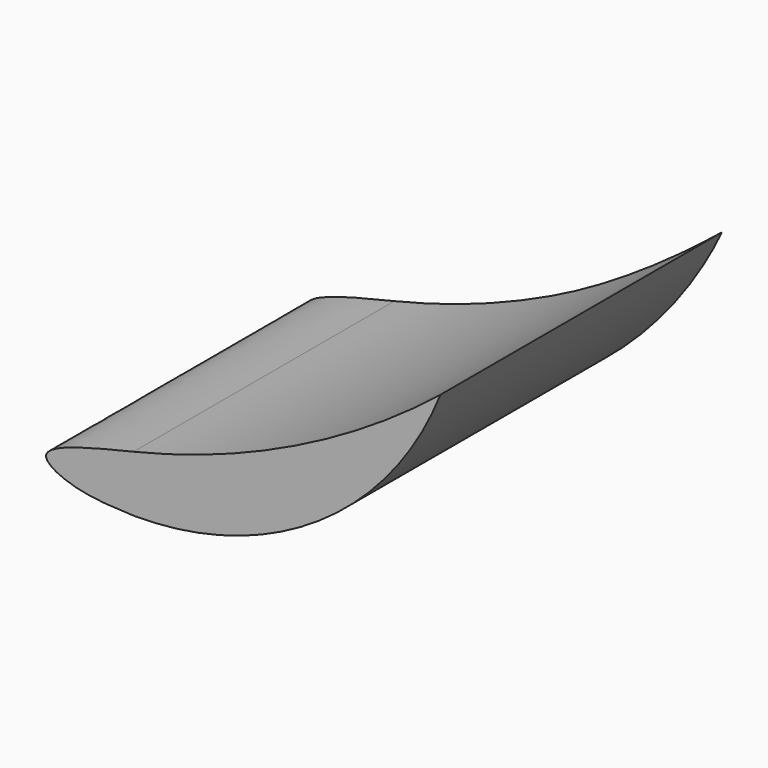
from build123d import *

# Parameters (mm, degrees)
F2_DEPTH = 190
F5_DEPTH = 193.6180001


with BuildPart() as f2:
    # F1 (on offset) → F2 (new body)
    with BuildSketch(Plane.XZ.offset(-509)):
        with BuildLine():
            add(Edge.make_bspline(
                [(-992.753, 170.757), (-1003.1629046595, 171.1654860356), (-1020.6176468538, 171.8504124279), (-1044.3974707553, 185.0367242067), (-1012.9132417897, 192.5244180032), (-992.753, 197.319)],
                knots=[0, 0, 0, 0, 0.3470343229, 0.5818876192, 1, 1, 1, 1], degree=3))
            ThreePointArc((-992.753, 170.757), (-905.2313593061, 197.0672513435), (-847.79, 268.15))
            ThreePointArc((-847.79, 268.15), (-916.3418745209, 224.6921132157), (-992.753, 197.319))
        make_face()
    extrude(amount=-F2_DEPTH)

    # F4 (on offset) → F5 (cut, through all)
    with BuildSketch(Plane.XY.offset(74.533)):
        with BuildLine():
            Line((-1528.306, 699), (-1528.306, 663))
            Line((-1528.306, 663), (-918.774, 663))
            ThreePointArc((-918.774, 663), (-856.7190584643, 672.1977197788), (-800, 699))
            Line((-800, 699), (-1528.306, 699))
        make_face()
    extrude(amount=F5_DEPTH, mode=Mode.SUBTRACT)


solid = f2.part
